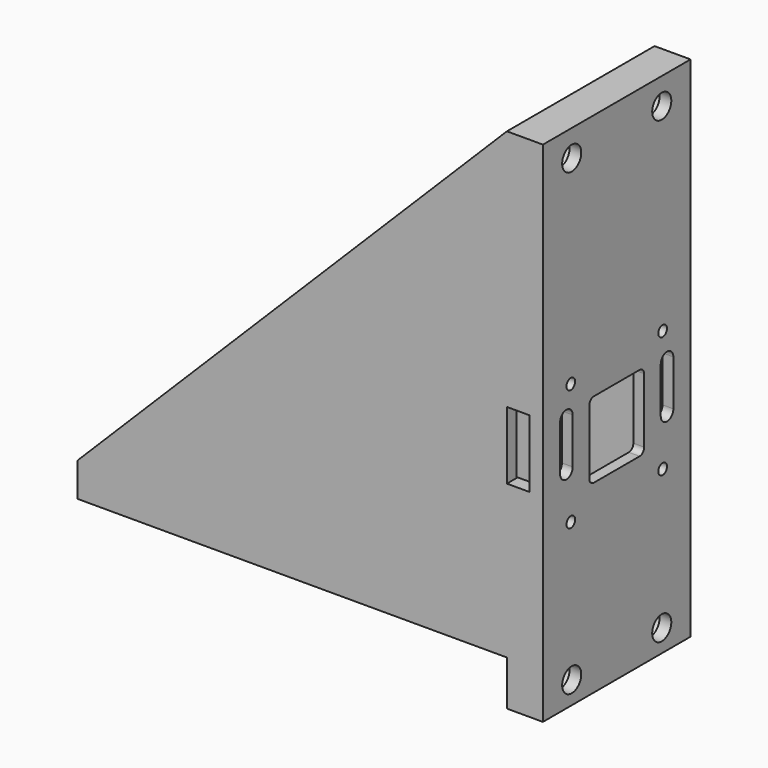
from build123d import *

# Parameters (mm, degrees)
PAD001_DEPTH         = 20.5
POCKET_DEPTH         = 17.8
SKETCH020_W          = 89.65
SKETCH020_H          = 5
POCKET002_DEPTH      = 12.8
HOLE006_D            = 5.3
HOLE006_CBORE_D      = 8.9
HOLE006_CBORE_DEPTH  = 5.4
SKETCH032_W          = 35
SKETCH032_H          = 37
POCKET010_DEPTH      = 101.001
SKETCH033_W          = 5
SKETCH033_H          = 15
POCKET011_DEPTH      = 20.501
POCKET011_DEPTH_BACK = 20.501
SKETCH034_R          = 1.2
POCKET012_DEPTH      = 103.501


with BuildPart() as part:
    # Sketch018 → Pad001 (new body, symmetric)
    with BuildSketch(Plane.XZ):
        Polygon((71.9, 102.9), (-23.5, 7.5), (-23.5, 0), (71.9, 0), (71.9, -10), (79.9, -10), (79.9, 102.9), align=None)
    extrude(amount=PAD001_DEPTH, both=True)

    # Sketch019 → Pocket (cut, symmetric)
    with BuildSketch(Plane.XZ):
        Polygon((-17.5, 4.5), (71.9, 4.5), (71.9, 104.5), (-27.5, 104.5), (-27.5, 14.5), align=None)
    extrude(amount=POCKET_DEPTH, both=True, mode=Mode.SUBTRACT)

    # Sketch020 → Pocket002 (cut, symmetric)
    with BuildSketch(Plane.XZ):
        with Locations((27.075, 2.5)):
            Rectangle(SKETCH020_W, SKETCH020_H)
    extrude(amount=POCKET002_DEPTH, both=True, mode=Mode.SUBTRACT)

    # Hole006 (through all)
    with Locations(Plane(origin=(71.9, 0, 0), x_dir=(0, 1, 0), z_dir=(-1, 0, 0))):
        with Locations((-12.5, -97), (12.5, -97), (-12.5, 5), (12.5, 5)):
            CounterBoreHole(HOLE006_D / 2, HOLE006_CBORE_D / 2, HOLE006_CBORE_DEPTH)

    # Sketch032 → Pocket010 (cut, through all)
    with BuildSketch(Plane.YZ.offset(77.5)):
        with Locations((0, 39.3)):
            Rectangle(SKETCH032_W, SKETCH032_H)
    extrude(amount=-POCKET010_DEPTH, mode=Mode.SUBTRACT)

    # Sketch033 → Pocket011 (cut, two sides)
    with BuildSketch(Plane.XZ) as pocket011_sk:
        with Locations((74.4, 41.5)):
            Rectangle(SKETCH033_W, SKETCH033_H)
    extrude(amount=-POCKET011_DEPTH, mode=Mode.SUBTRACT)
    extrude(pocket011_sk.sketch, amount=POCKET011_DEPTH_BACK, mode=Mode.SUBTRACT)

    # Sketch034 → Pocket012 (cut, through all)
    with BuildSketch(Plane.YZ.offset(80)):
        with Locations((-12.75, 52.94381)):
            Circle(SKETCH034_R)
        with Locations((12.75, 52.94381)):
            Circle(SKETCH034_R)
        with Locations((12.75, 25.94381)):
            Circle(SKETCH034_R)
        with Locations((-12.75, 25.94381)):
            Circle(SKETCH034_R)
        with BuildLine():
            ThreePointArc((-12.22, 46.66), (-13.97, 48.41), (-15.72, 46.66))
            Line((-15.72, 46.66), (-15.72, 36.5))
            ThreePointArc((-15.72, 36.5), (-13.97, 34.75), (-12.22, 36.5))
            Line((-12.22, 46.66), (-12.22, 36.5))
        make_face()
        with BuildLine():
            ThreePointArc((15.72, 46.66), (13.97, 48.41), (12.22, 46.66))
            Line((12.22, 46.66), (12.22, 36.5))
            ThreePointArc((12.22, 36.5), (13.97, 34.75), (15.72, 36.5))
            Line((15.72, 46.66), (15.72, 36.5))
        make_face()
        with BuildLine():
            Line((-7.62, 46.66), (-7.62, 32.3))
            ThreePointArc((-7.62, 32.3), (-7.248026, 31.401974), (-6.35, 31.03))
            Line((-6.35, 31.03), (6.35, 31.03))
            ThreePointArc((6.35, 31.03), (7.248026, 31.401974), (7.62, 32.3))
            Line((7.62, 32.3), (7.62, 46.66))
            ThreePointArc((7.62, 46.66), (7.248026, 47.558026), (6.35, 47.93))
            Line((6.35, 47.93), (-6.35, 47.93))
            ThreePointArc((-6.35, 47.93), (-7.248026, 47.558026), (-7.62, 46.66))
        make_face()
    extrude(amount=-POCKET012_DEPTH, mode=Mode.SUBTRACT)


solid = part.part
